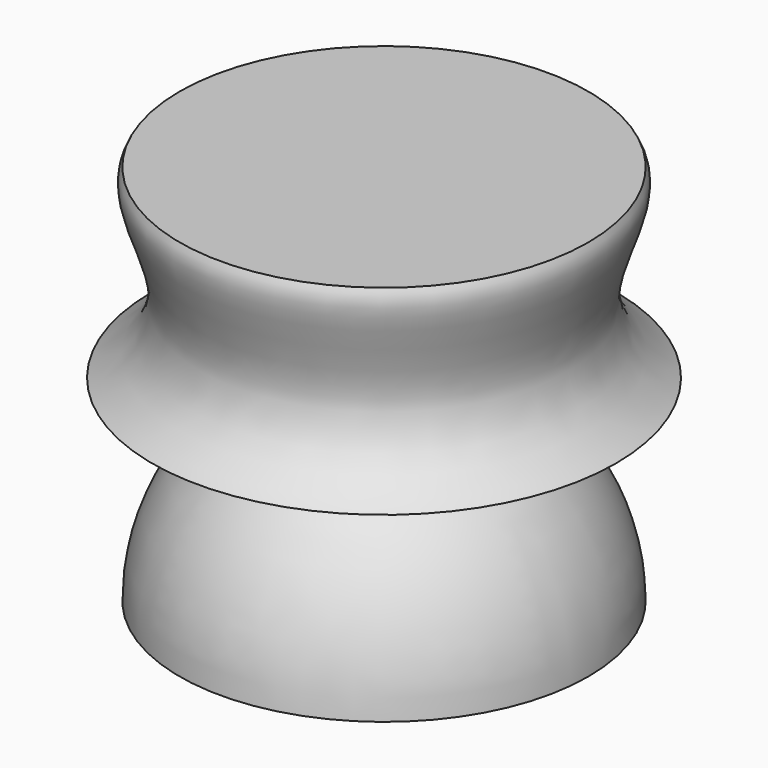
from build123d import *


with BuildPart() as f1:
    # F0 (on Front) → F1 (revolve)
    with BuildSketch(Plane.XZ):
        with BuildLine():
            Line((-28.828894, 24.440186), (-6.916453, 24.440186))
            ThreePointArc((-6.916453, 24.440186), (-20.258799, 15.321261), (-25.4, 0))
            Line((-25.4, 0), (0, 0))
            Line((0, 0), (0, 47.507292))
            Line((0, 47.507292), (-25.4, 47.507292))
            add(Edge.make_bspline(
                [(-25.4, 47.507292), (-28.205456, 42.831528), (-16.04847, 32.233129), (-28.828894, 24.440186)],
                knots=[0, 0, 0, 0, 23.320564, 23.320564, 23.320564, 23.320564], degree=3))
        make_face()
    revolve(axis=Axis((0, 0, 23.753646), (0, 0, -1)))


solid = f1.part
